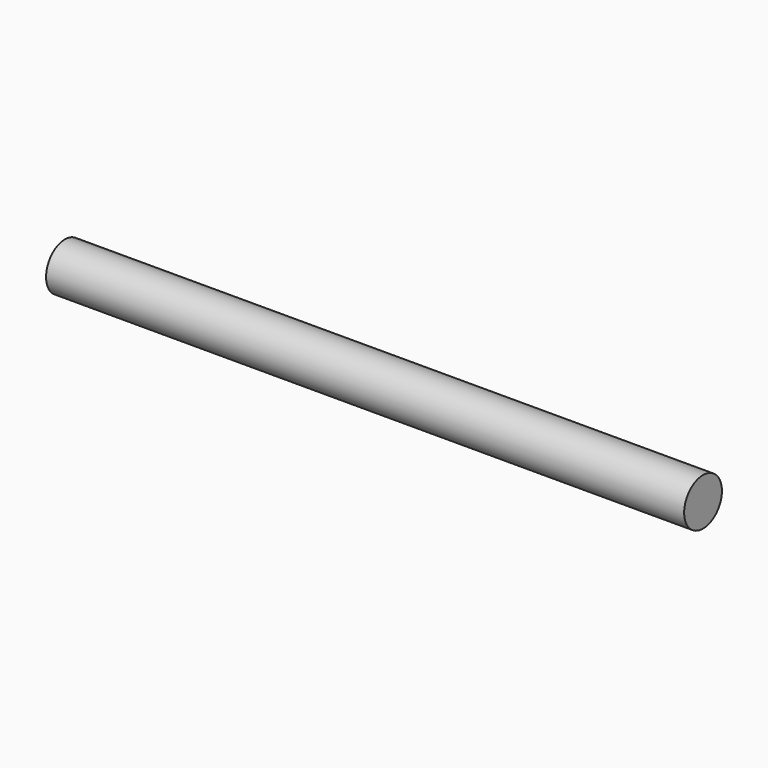
from build123d import *

# Parameters (mm, degrees)
F1_R = 3.7


with BuildPart() as f2:
    # F2: sweep along a path in F0
    with BuildLine(Plane.XY) as f2_path:
        Line((0, 0), (100, 0))
    # F1 (on Right) → F2 (sweep)
    with BuildSketch(Plane.YZ):
        Circle(F1_R)
    sweep(path=f2_path.line)


solid = f2.part
